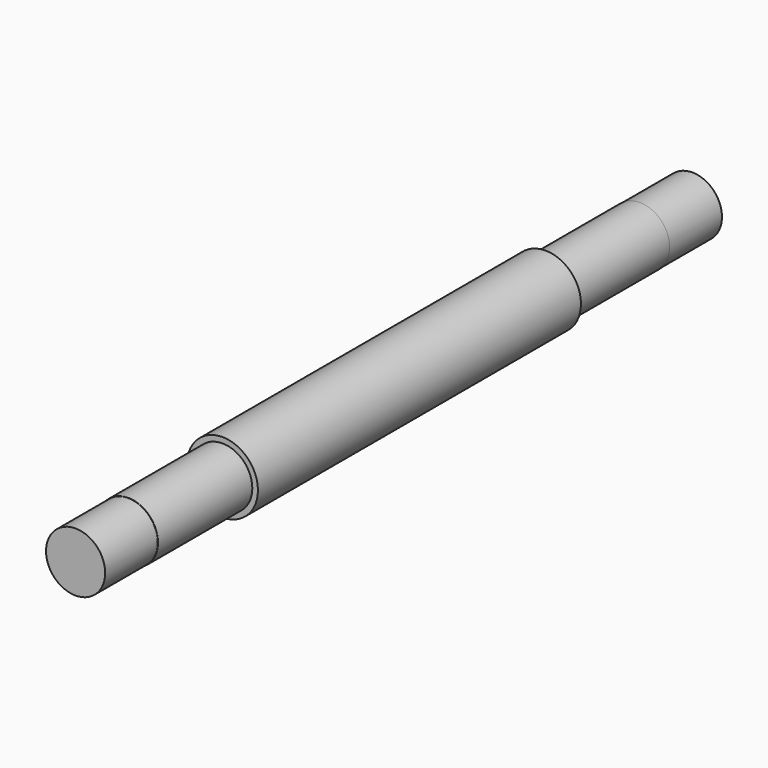
from build123d import *

# Parameters (mm, degrees)
F0_R     = 6.74
F1_DEPTH = 38.4
F2_R     = 5.675
F3_DEPTH = 22.42
F4_R     = 5.625
F5_DEPTH = 12.5
F6_R     = 5.675
F7_DEPTH = 22.42
F8_R     = 5.625
F9_DEPTH = 12.5


with BuildPart() as f1:
    # F0 (on Front) → F1 (new body, symmetric)
    with BuildSketch(Plane.XZ):
        Circle(F0_R)
    extrude(amount=F1_DEPTH, both=True)

    # F2 (on face) → F3 (join)
    with BuildSketch(Plane(origin=(0, 38.4, 0), x_dir=(-1, 0, 0), z_dir=(0, 1, 0))):
        Circle(F2_R)
    extrude(amount=F3_DEPTH)

    # F4 (on face) → F5 (join)
    with BuildSketch(Plane(origin=(0, 60.82, 0), x_dir=(-1, 0, 0), z_dir=(0, 1, 0))):
        Circle(F4_R)
    extrude(amount=F5_DEPTH)

    # F6 (on face) → F7 (join)
    with BuildSketch(Plane.XZ.offset(38.4)):
        Circle(F6_R)
    extrude(amount=F7_DEPTH)

    # F8 (on face) → F9 (join)
    with BuildSketch(Plane.XZ.offset(60.82)):
        Circle(F8_R)
    extrude(amount=F9_DEPTH)


solid = f1.part
